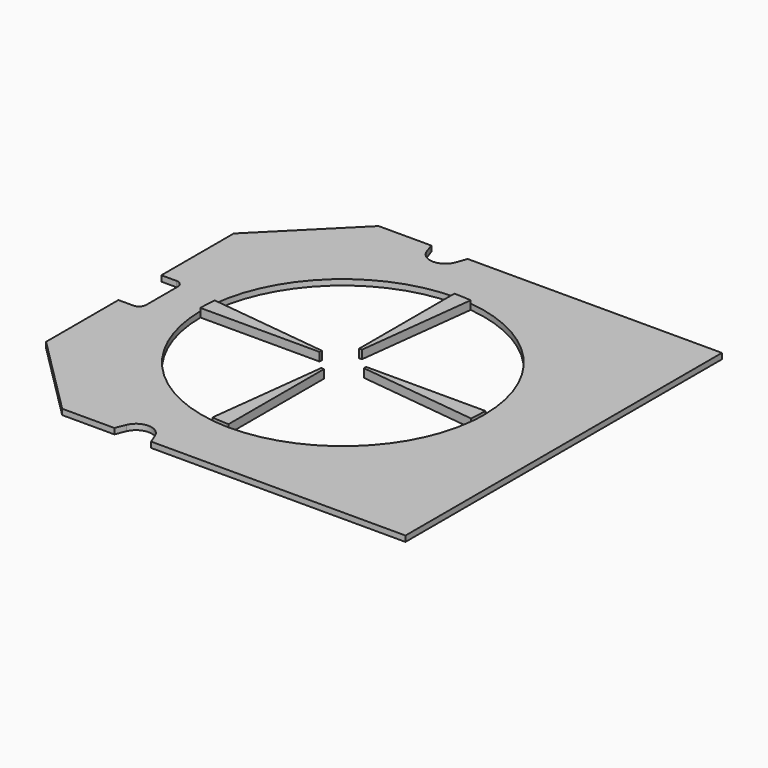
from build123d import *

# Parameters (mm, degrees)
F0_W      = 150
F0_H      = 140
F1_DEPTH  = 2
F3_DEPTH  = 2.001
F5_DEPTH  = 2.001
F7_DEPTH  = 2.001
F8_R      = 50
F9_DEPTH  = 1
F11_DEPTH = 25


with BuildPart() as f1:
    # F0 (on Top) → F1 (new body)
    with BuildSketch(Plane.XY):
        Rectangle(F0_W, F0_H)
    extrude(amount=F1_DEPTH)

    # F2 (on face) → F3 (cut, through all)
    with BuildSketch(Plane.XY.offset(2)):
        Polygon((-75, 70), (-75, 41.5), (-46.5, 70), align=None)
        Polygon((-46.5, -70), (-75, -41.5), (-75, -70), align=None)
    extrude(amount=-F3_DEPTH, mode=Mode.SUBTRACT)

    # F4 (on face) → F5 (cut, through all)
    with BuildSketch(Plane.XY.offset(2)):
        with BuildLine():
            Line((-69.68, 9.5), (-75, 9.5))
            Line((-75, 9.5), (-75, -9.5))
            Line((-75, -9.5), (-69.68, -9.5))
            ThreePointArc((-69.68, -9.5), (-67.912233047, -8.767766953), (-67.18, -7))
            Line((-67.18, -7), (-67.18, 7))
            ThreePointArc((-67.18, 7), (-67.912233047, 8.767766953), (-69.68, 9.5))
        make_face()
    extrude(amount=-F5_DEPTH, mode=Mode.SUBTRACT)

    # F6 (on face) → F7 (cut, through all)
    with BuildSketch(Plane.XY.offset(2)):
        with BuildLine():
            Line((-28.0316714603, -70), (-15, -70))
            Line((-15, -70), (-16.4167693452, -66.4955507391))
            ThreePointArc((-16.4167693452, -66.4955507391), (-21.5158357302, -63.056987617), (-26.6149021151, -66.4955507391))
            Line((-26.6149021151, -66.4955507391), (-28.0316714603, -70))
        make_face()
        with BuildLine():
            Line((-27.8761372256, 70), (-26.6312305576, 66.430881427))
            ThreePointArc((-26.6312305576, 66.430881427), (-21.4380686128, 62.742253563), (-16.244906668, 66.430881427))
            Line((-16.244906668, 66.430881427), (-15, 70))
            Line((-15, 70), (-27.8761372256, 70))
        make_face()
    extrude(amount=-F7_DEPTH, mode=Mode.SUBTRACT)

    # F8 (on face) → F9 (join)
    with BuildSketch(Plane.XY.offset(2)):
        with Locations((-3.16, 0)):
            Circle(F8_R)
    extrude(amount=F9_DEPTH)

    # F10 (on face) → F11 (cut)
    with BuildSketch(Plane.XY.offset(3)):
        with BuildLine():
            Line((-3.6879379587, 7.8371274476), (-3.6960266549, 49.9971266717))
            ThreePointArc((-3.6960266549, 49.9971266717), (-36.7261918512, 37.05820779), (-52.8603788952, 5.4655592283))
            Line((-52.8603788952, 5.4655592283), (-10.9972216764, 0.4713958675))
            Line((-10.9972216764, 0.4713958675), (-10.9972216764, -0.5286041325))
            Line((-10.9972216764, -0.5286041325), (-53.1572216493, -0.5270933046))
            ThreePointArc((-53.1572216493, -0.5270933046), (-40.550995441, -33.1950818636), (-9.6065138215, -49.5826830612))
            Line((-9.6065138215, -49.5826830612), (-4.6131023208, -7.7194361544))
            Line((-4.6131023208, -7.7194361544), (-3.6201410564, -7.8378757061))
            Line((-3.6201410564, -7.8378757061), (-3.6208964704, -49.9978756993))
            ThreePointArc((-3.6208964704, -49.9978756993), (30.0356406829, -37.3904993234), (46.5405422428, -5.4640736429))
            Line((46.5405422428, -5.4640736429), (4.6772058717, -0.4714122399))
            Line((4.6772058717, -0.4714122399), (4.6772058717, 0.5285877601))
            Line((4.6772058717, 0.5285877601), (46.8372058717, 0.5285877601))
            ThreePointArc((46.8372058717, 0.5285877601), (33.9001692932, 33.5640261584), (2.3039733451, 49.7005532694))
            Line((2.3039733451, 49.7005532694), (-2.6879379587, 7.8371274476))
            Line((-2.6879379587, 7.8371274476), (-3.6879379587, 7.8371274476))
        make_face()
    extrude(amount=-F11_DEPTH, mode=Mode.SUBTRACT)


solid = f1.part
